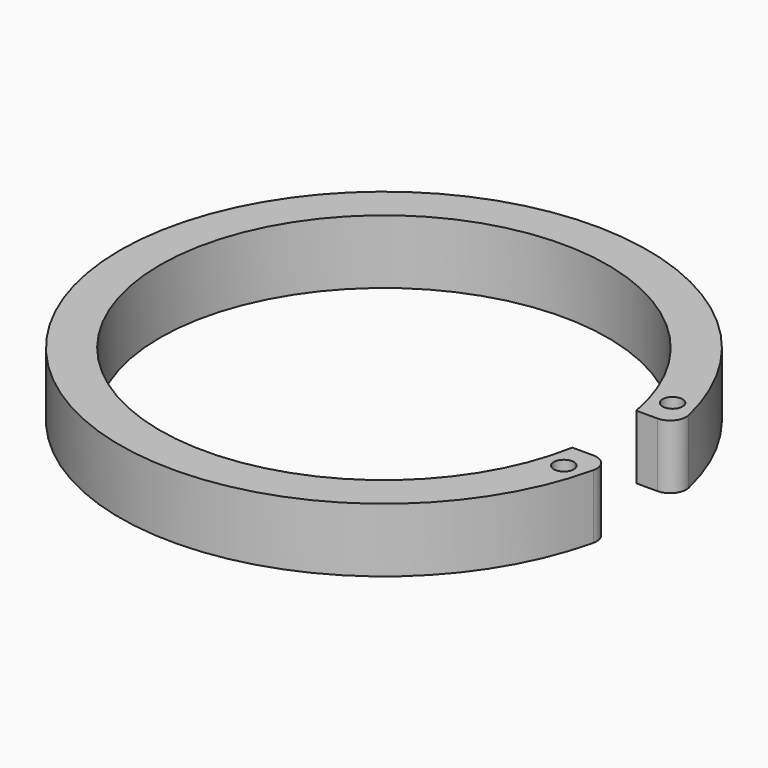
from build123d import *

# Parameters (mm, degrees)
F0_R     = 0.625
F1_DEPTH = 4
F2_R     = 1


with BuildPart() as f1:
    # F0 (on Top) → F1 (new body)
    with BuildSketch(Plane.XY):
        with BuildLine():
            ThreePointArc((13.774977, -2.5), (-14, 0), (13.774977, 2.5))
            Line((13.774977, 2.5), (16.309506, 2.5))
            ThreePointArc((16.309506, 2.5), (-16.5, 0), (16.309506, -2.5))
            Line((16.309506, -2.5), (13.774977, -2.5))
        make_face()
        with Locations((14.645819, -4.25)):
            Circle(F0_R, mode=Mode.SUBTRACT)
        with Locations((14.645819, 4.25)):
            Circle(F0_R, mode=Mode.SUBTRACT)
    extrude(amount=F1_DEPTH)

    # F2
    f2_edges = [f1.edges().sort_by_distance(p)[0] for p in [
        (16.309506, 2.5, 2),
        (16.309506, -2.5, 2),
    ]]
    fillet(f2_edges, radius=F2_R)


solid = f1.part
